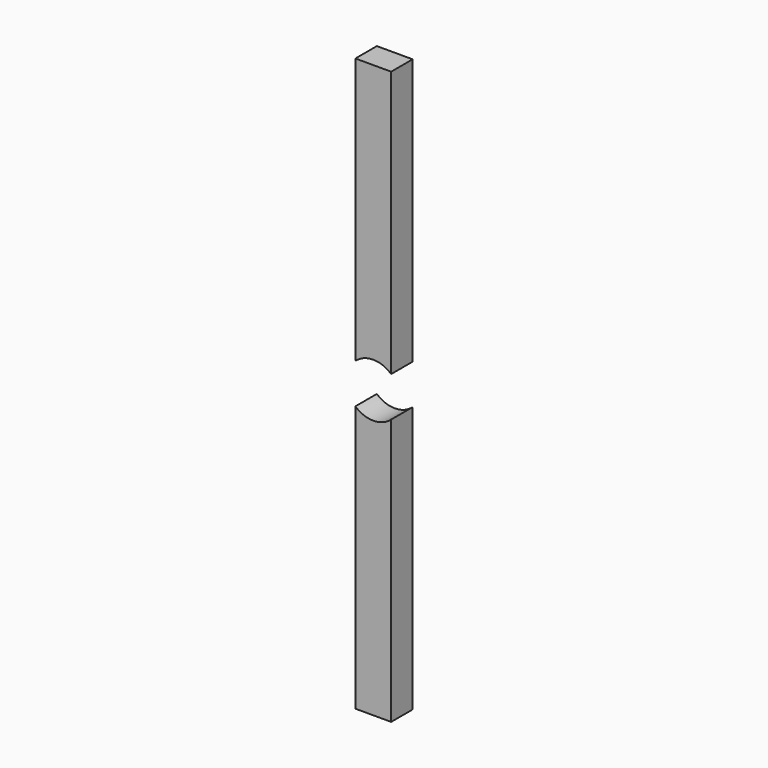
from build123d import *

# Parameters (mm, degrees)
CYLINDER868_R     = 3
CYLINDER868_DEPTH = 10
BOX419_W          = 4
BOX419_H          = 3
BOX419_DEPTH      = 64


with BuildPart() as obj1:
    # Cylinder868 → Cylinder868 (new body)
    with BuildSketch(Plane(origin=(32, 5, 32), x_dir=(1, 0, 0), z_dir=(0, -1, 0))):
        Circle(CYLINDER868_R)
    extrude(amount=CYLINDER868_DEPTH)


with BuildPart() as cut017:
    # Box419 → Box419 (new body)
    with BuildSketch(Plane(origin=(30, 0, 0), x_dir=(1, 0, 0), z_dir=(0, 0, 1))):
        with Locations((2, 1.5)):
            Rectangle(BOX419_W, BOX419_H)
    extrude(amount=BOX419_DEPTH)

    # Cut017: cut obj1
    add(obj1.part, mode=Mode.SUBTRACT)


solid = cut017.part
